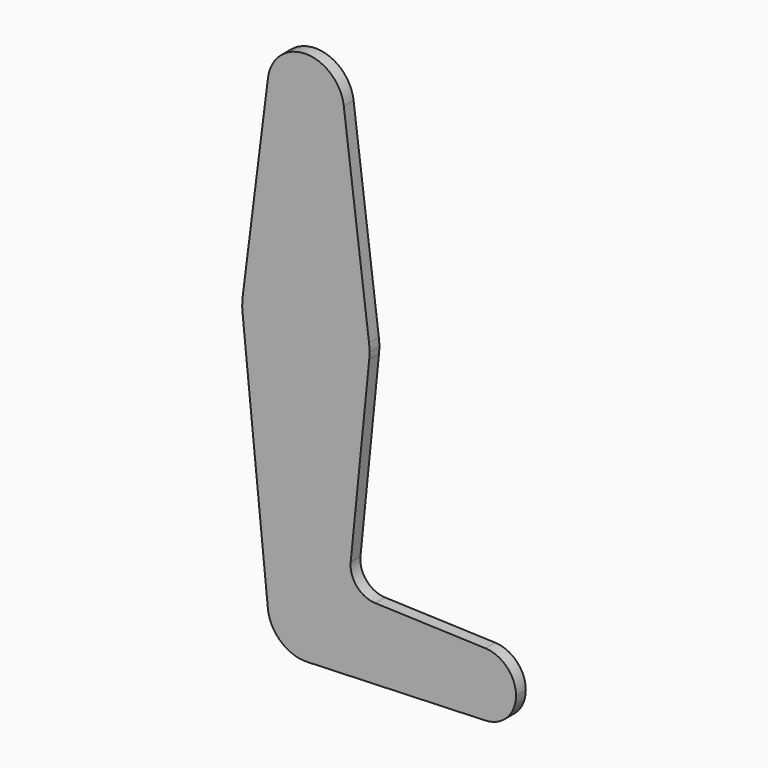
from build123d import *

# Parameters (mm, degrees)
F1_DEPTH = 3.048


with BuildPart() as f1:
    # F0 (on Front) → F1 (new body)
    with BuildSketch(Plane.XZ):
        with BuildLine():
            Line((-9.450293, 115.490625), (-15.750488, 65.484375))
            ThreePointArc((-15.750488, 65.484375), (0, 79.375), (15.750488, 65.484375))
            Line((15.750488, 65.484375), (9.450293, 115.490625))
            ThreePointArc((9.450293, 115.490625), (9.506305, 114.896483), (9.525, 114.3))
            ThreePointArc((9.525, 114.3), (-0.596483, 104.793695), (-9.450293, 115.490625))
        make_face()
        with BuildLine():
            ThreePointArc((9.450293, 115.490625), (0, 123.825), (-9.450293, 115.490625))
            ThreePointArc((-9.450293, 115.490625), (-0.596483, 104.793695), (9.525, 114.3))
            ThreePointArc((9.525, 114.3), (9.506305, 114.896483), (9.450293, 115.490625))
        make_face()
        with BuildLine():
            ThreePointArc((-15.795426, 61.9125), (0, 47.625), (15.795426, 61.9125))
            ThreePointArc((15.795426, 61.9125), (15.855094, 62.705253), (15.875, 63.5))
            ThreePointArc((15.875, 63.5), (15.843841, 64.494139), (15.750488, 65.484375))
            ThreePointArc((15.750488, 65.484375), (0, 79.375), (-15.750488, 65.484375))
            ThreePointArc((-15.750488, 65.484375), (-15.873744, 63.699705), (-15.795426, 61.9125))
        make_face()
        with BuildLine():
            ThreePointArc((44.733482, -7.932436), (36.5125, 0), (44.733482, 7.932436))
            Line((44.733482, 7.932436), (17.261891, 8.914191))
            ThreePointArc((17.261891, 8.914191), (12.704064, 11.085217), (11.170507, 15.89514))
            Line((11.170507, 15.89514), (15.795426, 61.9125))
            ThreePointArc((15.795426, 61.9125), (0, 47.625), (-15.795426, 61.9125))
            Line((-15.795426, 61.9125), (-9.477255, -0.9525))
            ThreePointArc((-9.477255, -0.9525), (-0.476848, 9.513056), (9.525, 0))
            ThreePointArc((9.525, 0), (6.854408, -6.613827), (0.340179, -9.518923))
            Line((0.340179, -9.518923), (44.733482, -7.932436))
        make_face()
        with BuildLine():
            ThreePointArc((-9.477255, -0.9525), (-6.262383, -7.17692), (0.340179, -9.518923))
            ThreePointArc((0.340179, -9.518923), (6.854408, -6.613827), (9.525, 0))
            ThreePointArc((9.525, 0), (-0.476848, 9.513056), (-9.477255, -0.9525))
        make_face()
        with BuildLine():
            ThreePointArc((44.733482, -7.932436), (50.162007, -5.511523), (52.3875, 0))
            ThreePointArc((52.3875, 0), (50.162007, 5.511523), (44.733482, 7.932436))
            ThreePointArc((44.733482, 7.932436), (36.5125, 0), (44.733482, -7.932436))
        make_face()
    extrude(amount=F1_DEPTH)


solid = f1.part
